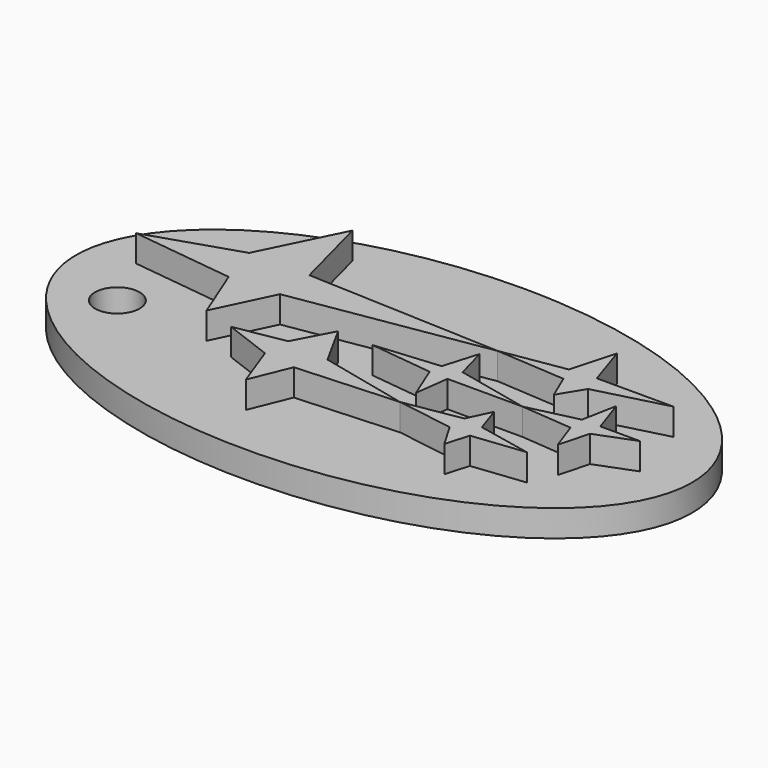
from build123d import *

# Parameters (mm, degrees)
F1_DEPTH = 3
F3_DEPTH = 3
F4_R     = 2.5
F5_DEPTH = 3.001


with BuildPart() as f1:
    # F0 (on Top) → F1 (new body)
    with BuildSketch(Plane.XY):
        with BuildLine():
            add(Edge.make_bspline(
                [(0, 19.564606), (-59.941395, 19.564606), (-29.970698, -9.782303), (0, -39.129212), (29.970698, -9.782303), (59.941395, 19.564606), (0, 19.564606)],
                knots=[4.712389, 4.712389, 4.712389, 6.806784, 6.806784, 8.901179, 8.901179, 10.995574, 10.995574, 10.995574], degree=2, weights=[1, 0.5, 1, 0.5, 1, 0.5, 1]))
        make_face()
    extrude(amount=F1_DEPTH)

    # F4 (on face) → F5 (cut, through all)
    with BuildSketch(Plane.XY.offset(3)):
        with Locations((-26.393848, -4.4698)):
            Circle(F4_R)
    extrude(amount=-F5_DEPTH, mode=Mode.SUBTRACT)


with BuildPart() as f3:
    # F2 (on face) → F3 (new body)
    with BuildSketch(Plane.XY.offset(3)):
        Polygon((16.330169, 5.534038), (9.260564, 4.386345), (17.0676, 3.851914), (18.307686, 0.95838), (19.961134, 3.686569), (27.897686, 5.753379), (19.299753, 5.753379), (17.728979, 10.548378), align=None)
        Polygon((-14.986487, 14.286583), (-19.405652, 5.300949), (-29.476965, 2.033121), (-17.962636, 0.624053), (-15.485262, -5.569379), (-12.388547, 0.871791), (9.260564, 4.386345), (-12.629599, 5.300949), align=None)
        Polygon((9.379067, -0.695068), (8.386998, 2.942518), (7.229583, -0.943085), (0, -1.604465), (7.064239, -2.431189), (8.635014, -6.316791), (9.131049, -2.513861), (17.563635, -2.513861), align=None)
        Polygon((23.185357, -1.191103), (17.563635, -2.513861), (23.350703, -3.009896), (24.508117, -6.23412), (25.417512, -2.844551), (29.716479, -1.191103), (25.252167, -1.191103), (23.92941, 2.6945), align=None)
        Polygon((17.232943, -7.804895), (16.240876, -4.828689), (15.000789, -7.474206), (8.635014, -8.548946), (15.000789, -9.541015), (16.654238, -12.351877), (17.398288, -9.70636), (23.268031, -9.044981), align=None)
        Polygon((-2.773777, -9.210326), (8.635014, -8.548946), (-1.368347, -6.23412), (-4.013863, -1.43912), (-6.246019, -5.655413), (-11.867741, -6.647481), (-6.411363, -8.714291), (-4.59257, -13.674635), align=None)
    extrude(amount=F3_DEPTH)


solid = Compound([f1.part, f3.part])
